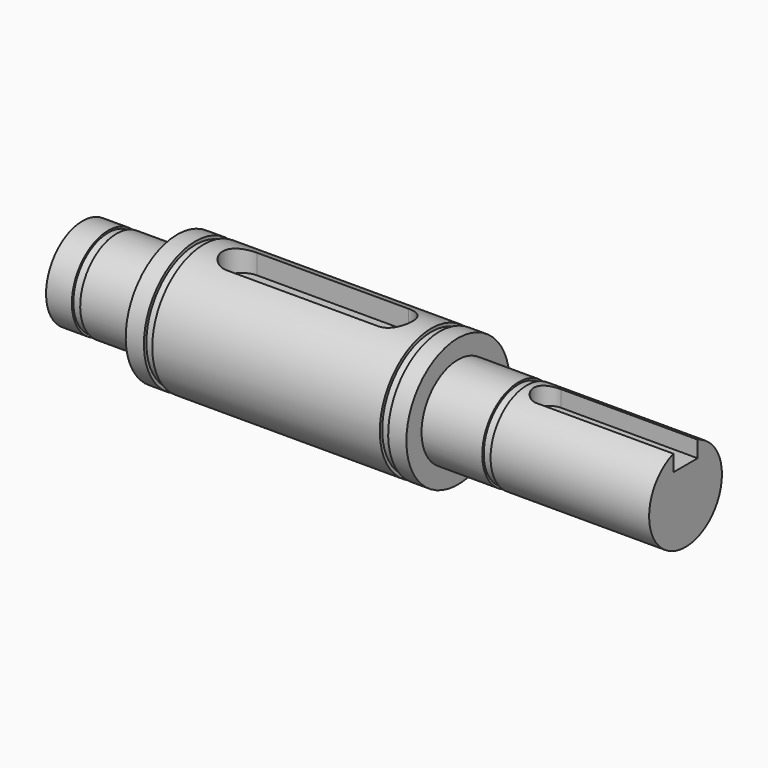
from build123d import *

# Parameters (mm, degrees)
F4_DEPTH = 3
F7_DEPTH = 2.5


with BuildPart() as f1:
    # F0 (on Front) → F1 (revolve)
    with BuildSketch(Plane.XZ):
        Polygon((2.250003, 6), (2.250003, 0), (64.250003, 0), (81.750003, 0), (81.750003, 6), (64.250003, 6), (60.850003, 6), (60.850003, 5.75), (59.750003, 5.75), (59.750003, 6), (51.750003, 6), (51.750003, 8.5), (49.350003, 8.5), (49.350003, 8.1), (48.250003, 8.1), (48.250003, 8.5), (18.250003, 8.5), (18.250003, 8.1), (17.150003, 8.1), (17.150003, 8.5), (14.750003, 8.5), (14.750003, 6), (6.750003, 6), (6.750003, 5.75), (5.650003, 5.75), (5.650003, 6), align=None)
    revolve(axis=Axis((33.250003, 0, 0), (1, 0, 0)))

    # F3 (on offset) → F4 (cut)
    with BuildSketch(Plane.XY.offset(8.5)):
        with BuildLine():
            Line((43.250003, 2.5), (23.250003, 2.5))
            ThreePointArc((23.250003, 2.5), (20.750003, 0), (23.250003, -2.5))
            Line((23.250003, -2.5), (43.250003, -2.5))
            ThreePointArc((43.250003, -2.5), (45.750003, 0), (43.250003, 2.5))
        make_face()
    extrude(amount=-F4_DEPTH, mode=Mode.SUBTRACT)

    # F6 (on offset) → F7 (cut)
    with BuildSketch(Plane.XY.offset(6)):
        with BuildLine():
            Line((82.259692, 2), (63.750003, 2))
            ThreePointArc((63.750003, 2), (61.750003, 0), (63.750003, -2))
            Line((63.750003, -2), (82.259692, -2))
            Line((82.259692, -2), (82.259692, 2))
        make_face()
    extrude(amount=-F7_DEPTH, mode=Mode.SUBTRACT)


solid = f1.part
